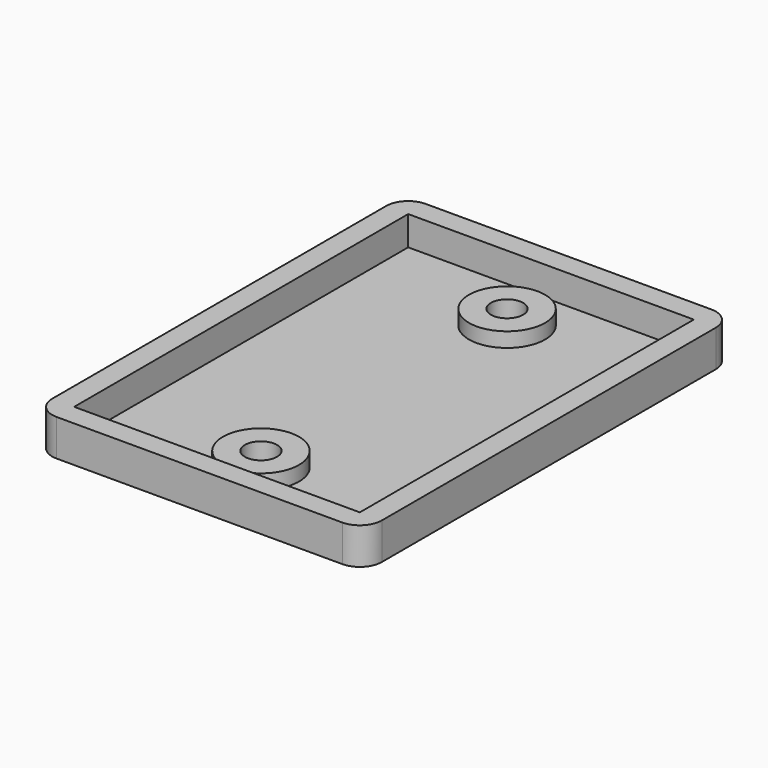
from build123d import *

# Parameters (mm, degrees)
PAD_DEPTH               = 1
PAD001_DEPTH            = 3
PAD002_DEPTH            = 5
PAD_MIRRORED_2_DEPTH    = 1
PAD001_MIRRORED_2_DEPTH = 3
PAD002_MIRRORED_2_DEPTH = 5


with BuildPart() as part:
    # Sketch → Pad (new body)
    with BuildSketch(Plane.XY):
        with BuildLine():
            Line((0, 0), (19.5, 0))
            Line((19.5, 0), (19.5, 28.5))
            Line((19.5, 28.5), (0, 28.5))
            Line((0, 28.5), (0, 23.2))
            ThreePointArc((0, 18.8), (2.2, 21), (0, 23.2))
            Line((0, 18.8), (0, 0))
        make_face()
    pad = extrude(amount=PAD_DEPTH)

    # Sketch001 → Pad001 (join)
    with BuildSketch(Plane.XY):
        with BuildLine():
            ThreePointArc((0, 18.8), (2.2, 21), (0, 23.2))
            Line((0, 23.2), (0, 26.2))
            ThreePointArc((0, 15.8), (5.2, 21), (0, 26.2))
            Line((0, 18.8), (0, 15.8))
        make_face()
    pad001 = extrude(amount=PAD001_DEPTH)

    # Sketch002 → Pad002 (join)
    with BuildSketch(Plane.XY):
        with BuildLine():
            Line((19.5, 0), (19.5, 28.5))
            Line((19.5, 28.5), (0, 28.5))
            Line((0, 28.5), (0, 31.5))
            Line((0, 31.5), (19.5, 31.5))
            ThreePointArc((22.5, 28.5), (21.62132, 30.62132), (19.5, 31.5))
            Line((22.5, 0), (22.5, 28.5))
            Line((19.5, 0), (22.5, 0))
        make_face()
    pad002 = extrude(amount=PAD002_DEPTH)

    # Sketch Mirrored 2 → Pad Mirrored 2 (add)
    with BuildSketch(Plane(origin=(0, 0, 0), x_dir=(-1, 0, 0), z_dir=(0, 0, -1))):
        with BuildLine():
            Line((0, 0), (19.5, 0))
            Line((19.5, 0), (19.5, 28.5))
            Line((19.5, 28.5), (0, 28.5))
            Line((0, 28.5), (0, 23.2))
            ThreePointArc((0, 18.8), (2.2, 21), (0, 23.2))
            Line((0, 18.8), (0, 0))
        make_face()
    pad_mirrored_2 = extrude(amount=-PAD_MIRRORED_2_DEPTH)

    # Sketch001 Mirrored 2 → Pad001 Mirrored 2 (add)
    with BuildSketch(Plane(origin=(0, 0, 0), x_dir=(-1, 0, 0), z_dir=(0, 0, -1))):
        with BuildLine():
            ThreePointArc((0, 18.8), (2.2, 21), (0, 23.2))
            Line((0, 23.2), (0, 26.2))
            ThreePointArc((0, 15.8), (5.2, 21), (0, 26.2))
            Line((0, 18.8), (0, 15.8))
        make_face()
    pad001_mirrored_2 = extrude(amount=-PAD001_MIRRORED_2_DEPTH)

    # Sketch002 Mirrored 2 → Pad002 Mirrored 2 (add)
    with BuildSketch(Plane(origin=(0, 0, 0), x_dir=(-1, 0, 0), z_dir=(0, 0, -1))):
        with BuildLine():
            Line((19.5, 0), (19.5, 28.5))
            Line((19.5, 28.5), (0, 28.5))
            Line((0, 28.5), (0, 31.5))
            Line((0, 31.5), (19.5, 31.5))
            ThreePointArc((22.5, 28.5), (21.62132, 30.62132), (19.5, 31.5))
            Line((22.5, 0), (22.5, 28.5))
            Line((19.5, 0), (22.5, 0))
        make_face()
    pad002_mirrored_2 = extrude(amount=-PAD002_MIRRORED_2_DEPTH)

    # Mirrored001: Pad, Pad001, Pad002, Pad Mirrored 2, Pad001 Mirrored 2, Pad002 Mirrored 2 across Sketch H_Axis
    add(pad.mirror(Plane.ZX))
    add(pad001.mirror(Plane.ZX))
    add(pad002.mirror(Plane.ZX))
    add(pad_mirrored_2.mirror(Plane.ZX))
    add(pad001_mirrored_2.mirror(Plane.ZX))
    add(pad002_mirrored_2.mirror(Plane.ZX))


solid = part.part
